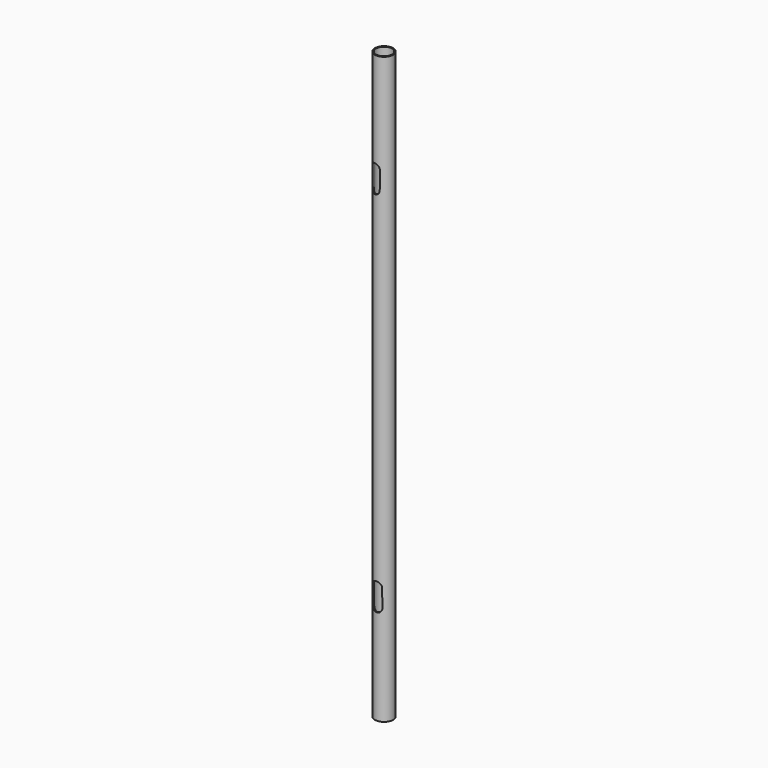
from build123d import *

# Parameters (mm, degrees)
F1_R     = 25.4
F1_R_2   = 22.225
F2_DEPTH = 1625.6
F4_DEPTH = 50


with BuildPart() as f2:
    # F1 (on Top) → F2 (new body)
    with BuildSketch(Plane.XY):
        Circle(F1_R)
        Circle(F1_R_2, mode=Mode.SUBTRACT)
    extrude(amount=F2_DEPTH)

    # F3 (on Front) → F4 (cut)
    with BuildSketch(Plane.XZ):
        with BuildLine():
            ThreePointArc((12.3654246976, 328.0673227027), (1.1899269468, 340.763681787), (-13.0896388975, 331.698182172))
            Line((-13.0896388975, 331.698182172), (-12.3654246976, 281.5326772973))
            ThreePointArc((-12.3654246976, 281.5326772973), (-1.7614192029, 264.8297264279), (13.0896388975, 277.901817828))
            Line((13.0896388975, 277.901817828), (12.3654246976, 328.0673227027))
        make_face()
        with BuildLine():
            ThreePointArc((-17.8609726221, 1293.9123234562), (-3.4922049716, 1284.9888824058), (7.5568313695, 1297.7954463442))
            Line((7.5568313695, 1297.7954463442), (7.7835105534, 1347.9656664163))
            ThreePointArc((7.7835105534, 1347.9656664163), (-7.1964552661, 1360.8898346418), (-17.6342934381, 1344.0825435284))
            Line((-17.6342934381, 1344.0825435284), (-17.8609726221, 1293.9123234562))
        make_face()
    extrude(amount=F4_DEPTH, mode=Mode.SUBTRACT)


solid = f2.part
